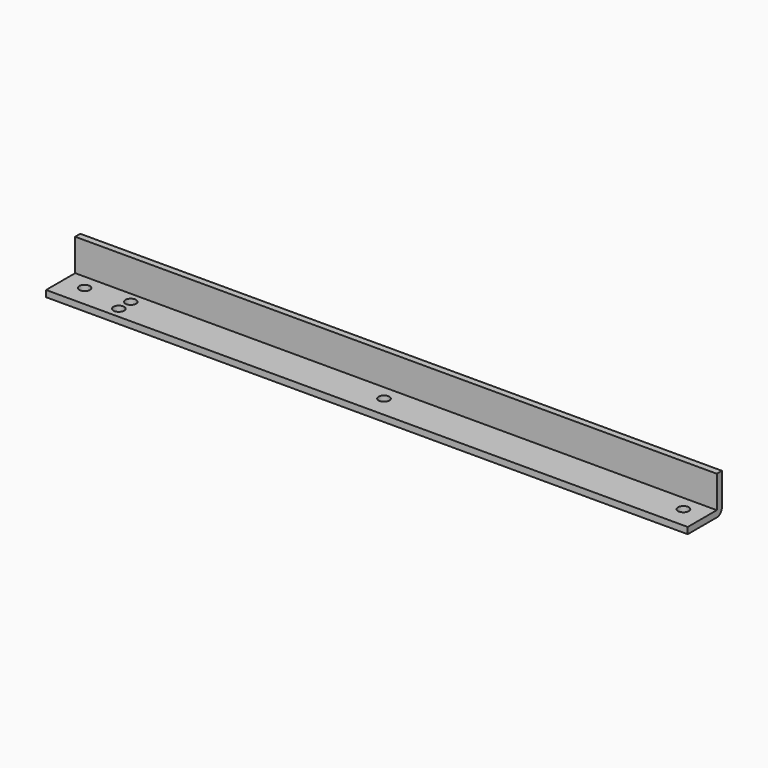
from build123d import *

# Parameters (mm, degrees)
F0_W     = 300
F0_H     = 20
F1_DEPTH = 3
F2_R     = 2.5
F3_DEPTH = 3
F4_W     = 300
F4_H     = 3
F5_DEPTH = 15
F6_R     = 3


with BuildPart() as f1:
    # F0 (on Top) → F1 (new body)
    with BuildSketch(Plane.XY):
        Rectangle(F0_W, F0_H)
    extrude(amount=F1_DEPTH)

    # F2 (on face) → F3 (cut)
    with BuildSketch(Plane.XY.offset(3)):
        with Locations((-120, 2)):
            Circle(F2_R)
        with Locations((-120, -5)):
            Circle(F2_R)
        with Locations((-140, 0)):
            Circle(F2_R)
        Circle(F2_R)
        with Locations((140, 0)):
            Circle(F2_R)
    extrude(amount=-F3_DEPTH, mode=Mode.SUBTRACT)

    # F4 (on face) → F5 (join)
    with BuildSketch(Plane.XY.offset(3)):
        with Locations((0, 8.5)):
            Rectangle(F4_W, F4_H)
    extrude(amount=F5_DEPTH)

    # F6
    f6_edges = [f1.edges().sort_by_distance(p)[0] for p in [
        (0, 10, 0),
    ]]
    fillet(f6_edges, radius=F6_R)


solid = f1.part
